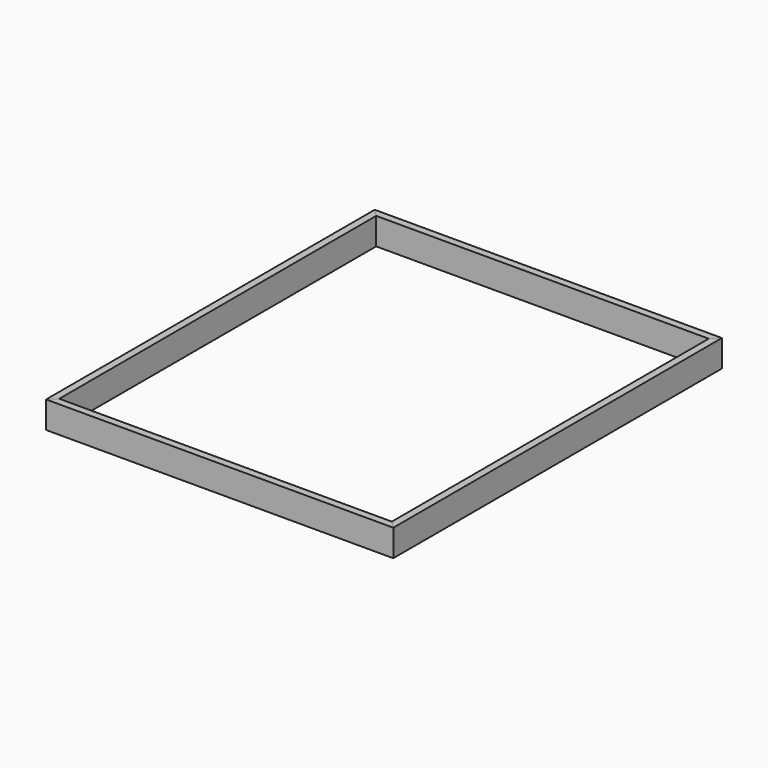
from build123d import *

# Parameters (mm, degrees)
F1_DEPTH = 139.7
F2_DEPTH = 139.7


with BuildPart() as f1:
    # F0 (on Top) → F1 (new body)
    with BuildSketch(Plane.XY):
        Polygon((-863.6, 1028.7), (863.6, 1028.7), (901.7, 1066.8), (-901.7, 1066.8), align=None)
        Polygon((901.7, -1066.8), (863.6, -1028.7), (-863.6, -1028.7), (-901.7, -1066.8), align=None)
    extrude(amount=F1_DEPTH)


with BuildPart() as f2:
    # F0 (on Top) → F2 (new body)
    with BuildSketch(Plane.XY):
        Polygon((901.7, 1066.8), (863.6, 1028.7), (863.6, -1028.7), (901.7, -1066.8), align=None)
        Polygon((-863.6, -1028.7), (-863.6, 1028.7), (-901.7, 1066.8), (-901.7, -1066.8), align=None)
    extrude(amount=F2_DEPTH)


solid = Compound([f1.part, f2.part])
